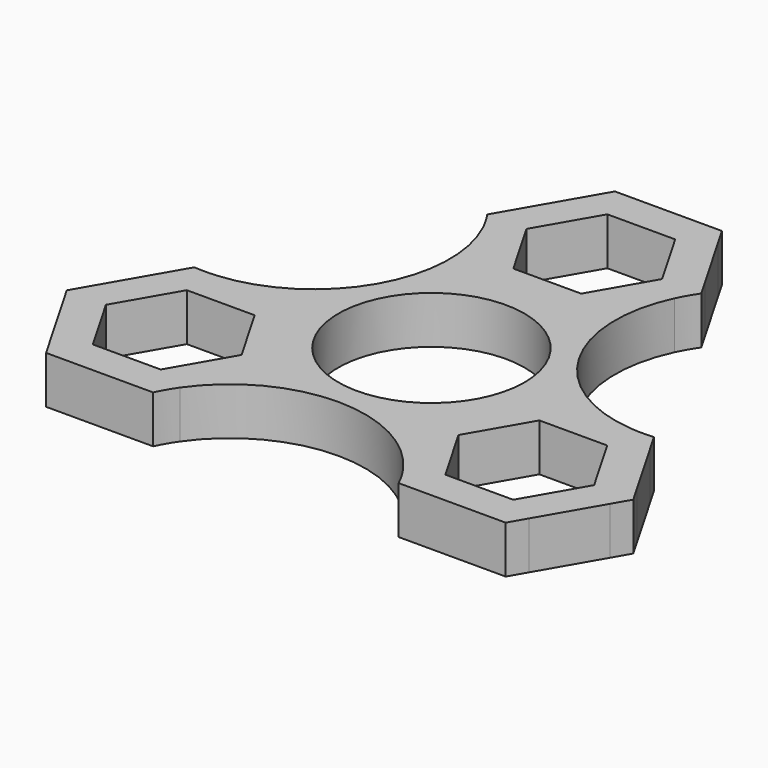
from build123d import *

# Parameters (mm, degrees)
F0_R     = 13.725453
F1_DEPTH = 7


with BuildPart() as f1:
    # F0 (on Top) → F1 (new body)
    with BuildSketch(Plane.XY):
        with BuildLine():
            Line((5, 43.660253), (-5, 43.660253))
            Line((-5, 43.660253), (-7.886752, 43.660253))
            Line((-7.886752, 43.660253), (-9.330152, 41.160211))
            Line((-9.330152, 41.160211), (-14.330019, 32.500187))
            Line((-14.330019, 32.500187), (-15.773503, 30))
            ThreePointArc((-15.773503, 30), (-14.879368, 28.590608), (-14.105865, 27.111568))
            ThreePointArc((-14.105865, 27.111568), (-14.879368, 8.590607), (-30.53224, -1.339746))
            ThreePointArc((-30.53224, -1.339746), (-32.199876, -1.409392), (-33.867513, -1.339746))
            Line((-33.867513, -1.339746), (-35.310889, -3.839746))
            Line((-35.310889, -3.839746), (-40.310889, -12.5))
            Line((-40.310889, -12.5), (-41.754264, -15))
            Line((-41.754264, -15), (-40.310888, -17.499999))
            Line((-40.310888, -17.499999), (-35.310888, -26.160254))
            Line((-35.310888, -26.160254), (-33.867512, -28.660255))
            Line((-33.867512, -28.660255), (-30.980762, -28.660255))
            Line((-30.980762, -28.660255), (-20.980762, -28.660255))
            Line((-20.980762, -28.660255), (-18.094012, -28.660255))
            ThreePointArc((-18.094012, -28.660255), (-17.320508, -27.181214), (-16.426373, -25.77182))
            ThreePointArc((-16.426373, -25.77182), (0, -17.181214), (16.426373, -25.77182))
            ThreePointArc((16.426373, -25.77182), (17.320508, -27.181214), (18.094012, -28.660255))
            Line((18.094012, -28.660255), (20.980762, -28.660255))
            Line((20.980762, -28.660255), (30.980762, -28.660255))
            Line((30.980762, -28.660255), (33.867512, -28.660255))
            Line((33.867512, -28.660255), (35.310888, -26.160254))
            Line((35.310888, -26.160254), (40.309298, -17.502755))
            Line((40.309298, -17.502755), (41.754264, -15))
            Line((41.754264, -15), (40.310625, -12.499543))
            Line((40.310625, -12.499543), (35.312513, -3.84256))
            Line((35.312513, -3.84256), (33.867513, -1.339746))
            ThreePointArc((33.867513, -1.339746), (32.199876, -1.409392), (30.53224, -1.339746))
            ThreePointArc((30.53224, -1.339746), (14.879368, 8.590607), (14.105865, 27.111568))
            ThreePointArc((14.105865, 27.111568), (14.879368, 28.590608), (15.773503, 30))
            Line((15.773503, 30), (14.329358, 32.501332))
            Line((14.329358, 32.501332), (9.330202, 41.160124))
            Line((9.330202, 41.160124), (7.886752, 43.660253))
            Line((7.886752, 43.660253), (5, 43.660253))
        make_face()
        Polygon((-30.980762, -6.339746), (-20.980762, -6.339746), (-15.980762, -15), (-20.980762, -23.660254), (-30.980762, -23.660254), (-35.980762, -15), align=None, mode=Mode.SUBTRACT)
        Circle(F0_R, mode=Mode.SUBTRACT)
        Polygon((20.980762, -23.660254), (15.980762, -15), (20.980762, -6.339746), (30.980762, -6.339746), (35.980762, -15), (30.980762, -23.660254), align=None, mode=Mode.SUBTRACT)
        Polygon((10, 30), (5, 21.339746), (-5, 21.339746), (-10, 30), (-5, 38.660254), (5, 38.660254), align=None, mode=Mode.SUBTRACT)
    extrude(amount=F1_DEPTH)


solid = f1.part
